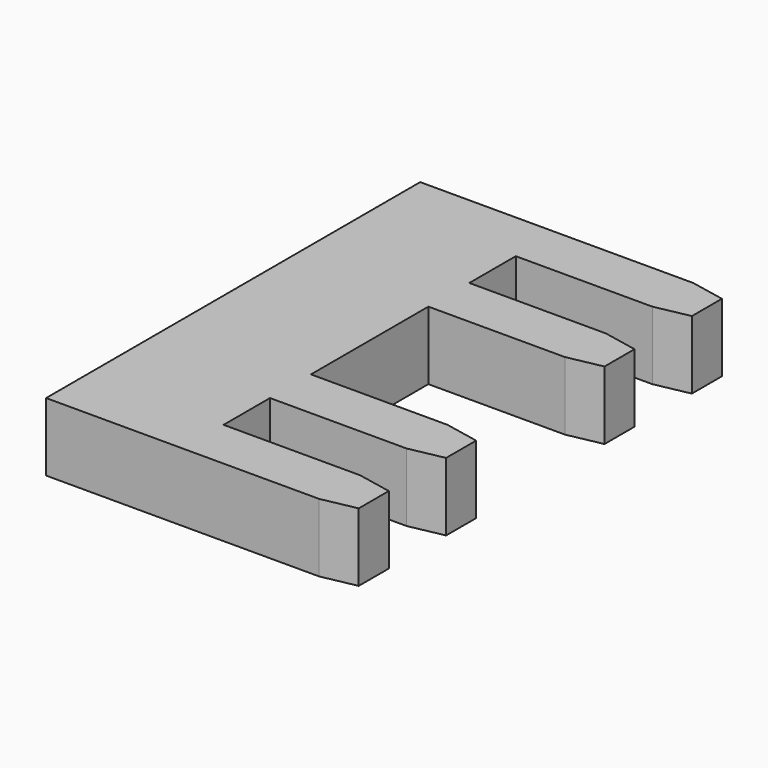
from build123d import *

# Parameters (mm, degrees)
F1_DEPTH   = 2
F2_SIZE2   = 1
F2_SIZE    = 0.2
F2_2_SIZE2 = 1
F2_2_SIZE  = 0.2
F2_3_SIZE2 = 1
F2_3_SIZE  = 0.2
F2_4_SIZE2 = 1
F2_4_SIZE  = 0.2
F3_SIZE2   = 0.2
F3_SIZE    = 1
F3_2_SIZE2 = 0.2
F3_2_SIZE  = 1
F3_3_SIZE2 = 0.2
F3_3_SIZE  = 1
F3_4_SIZE2 = 0.2
F3_4_SIZE  = 1


with BuildPart() as f1:
    # F0 (on Top) → F1 (new body)
    with BuildSketch(Plane.XY):
        Polygon((0, 13.7), (0, 0), (9, 0), (9, 1.5), (4, 1.5), (4, 3.2), (9, 3.2), (9, 4.7), (4, 4.7), (4, 9), (9, 9), (9, 10.5), (4, 10.5), (4, 12.2), (9, 12.2), (9, 13.7), (4, 13.7), align=None)
    extrude(amount=F1_DEPTH)

    # F2
    f2_edges = [f1.edges().sort_by_distance(p)[0] for p in [
        (9, 12.2, 1),
    ]]
    f2_side = f1.faces().sort_by_distance((9, 12.95, 1))[0]
    chamfer(f2_edges, length=F2_SIZE, length2=F2_SIZE2, reference=f2_side)

    # F2#2
    f2_2_edges = [f1.edges().sort_by_distance(p)[0] for p in [
        (9, 9, 1),
    ]]
    f2_2_side = f1.faces().sort_by_distance((9, 9.75, 1))[0]
    chamfer(f2_2_edges, length=F2_2_SIZE, length2=F2_2_SIZE2, reference=f2_2_side)

    # F2#3
    f2_3_edges = [f1.edges().sort_by_distance(p)[0] for p in [
        (9, 3.2, 1),
    ]]
    f2_3_side = f1.faces().sort_by_distance((9, 3.95, 1))[0]
    chamfer(f2_3_edges, length=F2_3_SIZE, length2=F2_3_SIZE2, reference=f2_3_side)

    # F2#4
    f2_4_edges = [f1.edges().sort_by_distance(p)[0] for p in [
        (9, 0, 1),
    ]]
    f2_4_side = f1.faces().sort_by_distance((9, 0.75, 1))[0]
    chamfer(f2_4_edges, length=F2_4_SIZE, length2=F2_4_SIZE2, reference=f2_4_side)

    # F3
    f3_edges = [f1.edges().sort_by_distance(p)[0] for p in [
        (9, 10.5, 1),
    ]]
    f3_side = f1.faces().sort_by_distance((6.5, 10.5, 1))[0]
    chamfer(f3_edges, length=F3_SIZE, length2=F3_SIZE2, reference=f3_side)

    # F3#2
    f3_2_edges = [f1.edges().sort_by_distance(p)[0] for p in [
        (9, 4.7, 1),
    ]]
    f3_2_side = f1.faces().sort_by_distance((6.5, 4.7, 1))[0]
    chamfer(f3_2_edges, length=F3_2_SIZE, length2=F3_2_SIZE2, reference=f3_2_side)

    # F3#3
    f3_3_edges = [f1.edges().sort_by_distance(p)[0] for p in [
        (9, 1.5, 1),
    ]]
    f3_3_side = f1.faces().sort_by_distance((6.5, 1.5, 1))[0]
    chamfer(f3_3_edges, length=F3_3_SIZE, length2=F3_3_SIZE2, reference=f3_3_side)

    # F3#4
    f3_4_edges = [f1.edges().sort_by_distance(p)[0] for p in [
        (9, 13.7, 1),
    ]]
    f3_4_side = f1.faces().sort_by_distance((4.5, 13.7, 1))[0]
    chamfer(f3_4_edges, length=F3_4_SIZE, length2=F3_4_SIZE2, reference=f3_4_side)


solid = f1.part
